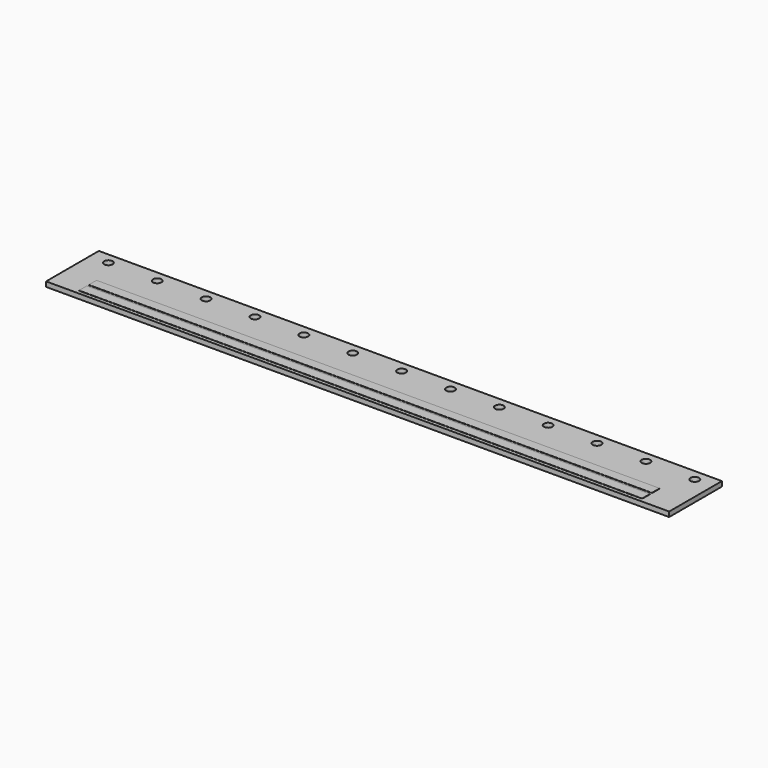
from build123d import *

# Parameters (mm, degrees)
SKETCH_W            = 255
SKETCH_H            = 26.9944
SKETCH_R            = 1.75
PAD_DEPTH           = 2
SKETCH001_R         = 1.75
POCKET_DEPTH        = 2.001
LINEARPATTERN_COUNT = 13
LINEARPATTERN_PITCH = 20
SKETCH002_W         = 230.5
SKETCH002_H         = 4
PAD001_DEPTH        = 0.1


with BuildPart() as part:
    # Sketch → Pad (new body)
    with BuildSketch(Plane.XY):
        with Locations((127.5, -4.4972)):
            Rectangle(SKETCH_W, SKETCH_H)
        with Locations((7.5, 4.5)):
            Circle(SKETCH_R, mode=Mode.SUBTRACT)
    extrude(amount=PAD_DEPTH)

    # Sketch001 (on Face7 of Pad) → Pocket (cut, through all)
    with BuildSketch(Plane.XY.offset(2)):
        with Locations((7.5, 4.5)):
            Circle(SKETCH001_R)
    pocket = extrude(amount=-POCKET_DEPTH, mode=Mode.SUBTRACT)

    # LinearPattern: Pocket ×13
    with Locations(*[(i * LINEARPATTERN_PITCH, 0, 0) for i in range(1, LINEARPATTERN_COUNT)]):
        add(pocket, mode=Mode.SUBTRACT)

    # Sketch002 (on Face5 of LinearPattern) → Pad001 (join)
    with BuildSketch(Plane.XY.offset(2)):
        with Locations((127.5, -9.4986)):
            Rectangle(SKETCH002_W, SKETCH002_H)
        with Locations((127.5, -14.4958)):
            Rectangle(SKETCH002_W, SKETCH002_H)
    extrude(amount=PAD001_DEPTH)


solid = part.part
